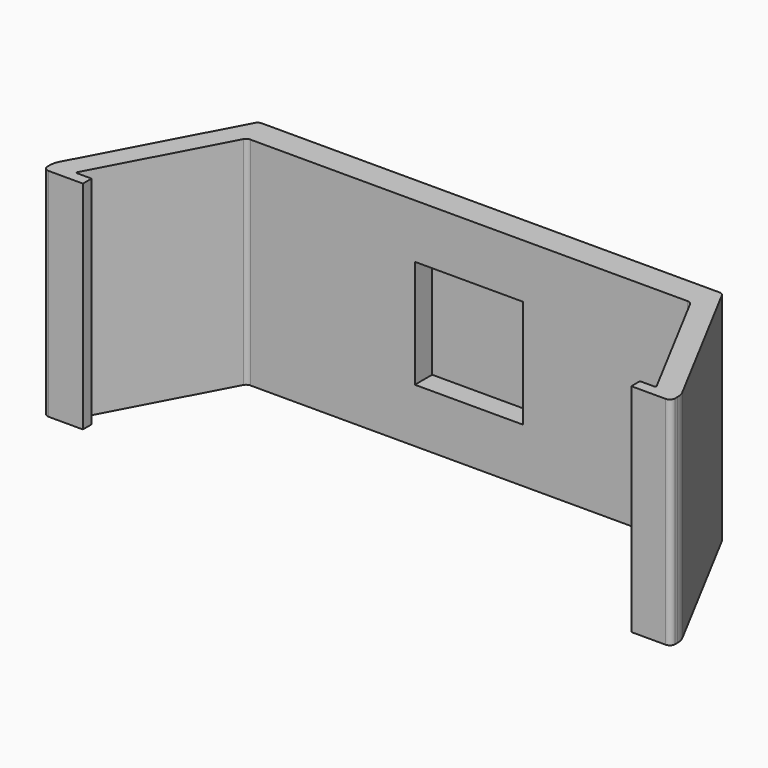
from build123d import *

# Parameters (mm, degrees)
F1_DEPTH = 10
F2_W     = 5
F2_H     = 10
F3_DEPTH = 2


with BuildPart() as f1:
    # F0 (on Top) → F1 (new body, symmetric)
    with BuildSketch(Plane.XY):
        with BuildLine():
            Line((21.1354362127, 15.4197925036), (0, 15.4197925036))
            Line((0, 15.4197925036), (0, 12.9197925036))
            Line((0, 12.9197925036), (20.1995696905, 12.9197925036))
            ThreePointArc((20.1995696905, 12.9197925036), (20.4570887279, 12.8483761539), (20.6410434869, 12.654528285))
            Line((20.6410434869, 12.654528285), (26.7597329087, 1.1469471563))
            ThreePointArc((26.7597329087, 1.1469471563), (26.7571548794, 1.0484961925), (26.6714381494, 1))
            Line((26.6714381494, 1), (25.3378660976, 1))
            Line((25.3378660976, 1), (25.3378660976, 0))
            Line((25.3378660976, 0), (28.4966643127, 0))
            ThreePointArc((28.4966643127, 0), (28.8502177032, 0.1464466094), (28.9966643127, 0.5))
            Line((28.9966643127, 0.5), (28.9966643127, 0.7512095949))
            ThreePointArc((28.9966643127, 0.7512095949), (28.94319662, 1.186669007), (28.7859699798, 1.5962584079))
            Line((28.7859699798, 1.5962584079), (21.5769100091, 15.154528285))
            ThreePointArc((21.5769100091, 15.154528285), (21.3929552502, 15.3483761539), (21.1354362127, 15.4197925036))
        make_face()
    extrude(amount=F1_DEPTH, both=True)

    # F2 (on face) → F3 (cut)
    with BuildSketch(Plane.XZ.offset(-12.9197925036)):
        with Locations((2.5, 0)):
            Rectangle(F2_W, F2_H)
    extrude(amount=-F3_DEPTH, mode=Mode.SUBTRACT)

    # F4: F1 across plane


with BuildPart() as f1_1:
    add(f1.part)
    add(f1.part.mirror(Plane.YZ))


solid = f1_1.part
